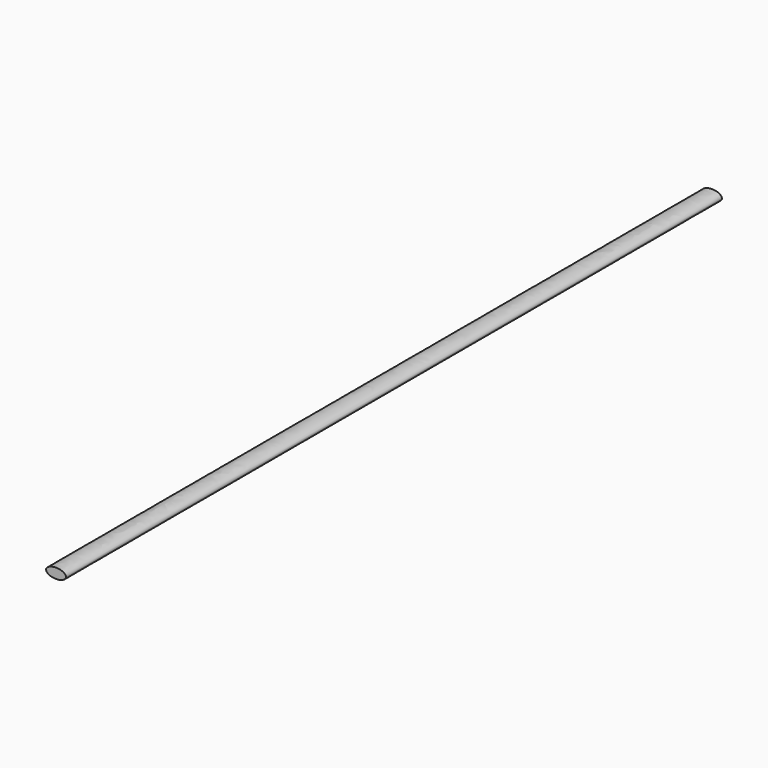
from build123d import *

# Parameters (mm, degrees)
F1_DEPTH = 6220.206


with BuildPart() as f1:
    # F0 (on Front) → F1 (new body)
    with BuildSketch(Plane.XZ):
        with BuildLine():
            add(Edge.make_bspline(
                [(75.553671, 0), (75.553671, 65.649228), (-37.776835, 32.824614), (-151.107341, 0), (-37.776835, -32.824614), (75.553671, -65.649228), (75.553671, 0)],
                knots=[0, 0, 0, 2.094395, 2.094395, 4.18879, 4.18879, 6.283185, 6.283185, 6.283185], degree=2, weights=[1, 0.5, 1, 0.5, 1, 0.5, 1]))
        make_face()
    extrude(amount=-F1_DEPTH)


solid = f1.part
